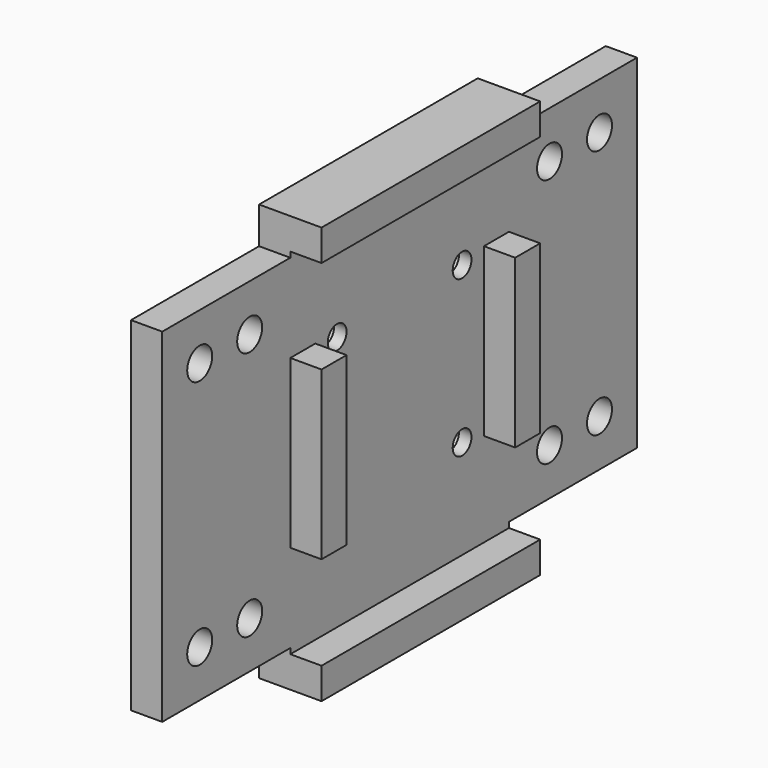
from build123d import *

# Parameters (mm, degrees)
SKETCH053_W     = 4
SKETCH053_H     = 27
PAD030_DEPTH    = 45.4
SKETCH054_R     = 1.5
POCKET022_DEPTH = 5
SKETCH055_R     = 2.75
POCKET023_DEPTH = 2.4
SKETCH056_W     = 35
SKETCH056_H     = 53.4
SKETCH056_W_2   = 27
SKETCH056_H_2   = 45.4
PAD031_DEPTH    = 8
SKETCH057_W     = 76
SKETCH057_H     = 44
SKETCH057_R     = 2
SKETCH057_W_2   = 30
SKETCH057_H_2   = 30
PAD032_DEPTH    = 4
SKETCH058_W     = 50
SKETCH058_H     = 12
POCKET024_DEPTH = 4


with BuildPart() as left001:
    # Sketch053 → Pad030 (new body)
    with BuildSketch(Plane.XY):
        Rectangle(SKETCH053_W, SKETCH053_H)
    extrude(amount=PAD030_DEPTH)

    # Sketch054 (on Face2 of Pad030) → Pocket022 (cut)
    with BuildSketch(Plane.YZ.offset(2)):
        with Locations((-10, 32.7)):
            Circle(SKETCH054_R)
        with Locations((10, 32.7)):
            Circle(SKETCH054_R)
        with Locations((10, 12.7)):
            Circle(SKETCH054_R)
        with Locations((-10, 12.7)):
            Circle(SKETCH054_R)
    extrude(amount=-POCKET022_DEPTH, mode=Mode.SUBTRACT)

    # Sketch055 (on Face2 of Pad030) → Pocket023 (cut)
    with BuildSketch(Plane.YZ.offset(2)):
        with Locations((-10, 32.7)):
            Circle(SKETCH055_R)
        with Locations((10, 32.7)):
            Circle(SKETCH055_R)
        with Locations((10, 12.7)):
            Circle(SKETCH055_R)
        with Locations((-10, 12.7)):
            Circle(SKETCH055_R)
    extrude(amount=-POCKET023_DEPTH, mode=Mode.SUBTRACT)

    # Sketch056 (on Face3 of Pocket023) → Pad031 (join)
    with BuildSketch(Plane.YZ.offset(2)):
        with Locations((0, 22.7)):
            Rectangle(SKETCH056_W, SKETCH056_H)
        with Locations((0, 22.7)):
            Rectangle(SKETCH056_W_2, SKETCH056_H_2, mode=Mode.SUBTRACT)
    extrude(amount=-PAD031_DEPTH)

    # Sketch057 (on Face23 of Pad031) → Pad032 (join)
    with BuildSketch(Plane.YZ.offset(2)):
        with Locations((0, 22.7)):
            Rectangle(SKETCH057_W, SKETCH057_H)
        with Locations((-32, 38.7)):
            Circle(SKETCH057_R, mode=Mode.SUBTRACT)
        with Locations((32, 38.7)):
            Circle(SKETCH057_R, mode=Mode.SUBTRACT)
        with Locations((32, 6.7)):
            Circle(SKETCH057_R, mode=Mode.SUBTRACT)
        with Locations((-32, 6.7)):
            Circle(SKETCH057_R, mode=Mode.SUBTRACT)
        with Locations((-24, 38.7)):
            Circle(SKETCH057_R, mode=Mode.SUBTRACT)
        with Locations((24, 38.7)):
            Circle(SKETCH057_R, mode=Mode.SUBTRACT)
        with Locations((24, 6.7)):
            Circle(SKETCH057_R, mode=Mode.SUBTRACT)
        with Locations((-24, 6.7)):
            Circle(SKETCH057_R, mode=Mode.SUBTRACT)
        with Locations((0, 22.7)):
            Rectangle(SKETCH057_W_2, SKETCH057_H_2, mode=Mode.SUBTRACT)
    extrude(amount=-PAD032_DEPTH)

    # Sketch058 (on Face4 of Pad032) → Pocket024 (cut)
    with BuildSketch(Plane(origin=(-6, 0, 0), x_dir=(0, -1, 0), z_dir=(-1, 0, 0))):
        with Locations((0, 39.4)):
            Rectangle(SKETCH058_W, SKETCH058_H)
        with Locations((0, 6)):
            Rectangle(SKETCH058_W, SKETCH058_H)
    extrude(amount=-POCKET024_DEPTH, mode=Mode.SUBTRACT)


with BuildPart() as left001_1:
    # Body017 placement: moved
    add(left001.part.moved(Location((-98, -275.5, -9.2))))


with BuildPart() as right001:
    # Part__Mirroring006: instance of Left001
    add(left001_1.part.mirror(Plane(origin=(0, 0, 0), x_dir=(0, -1, 0), z_dir=(1, 0, 0))))


solid = right001.part
